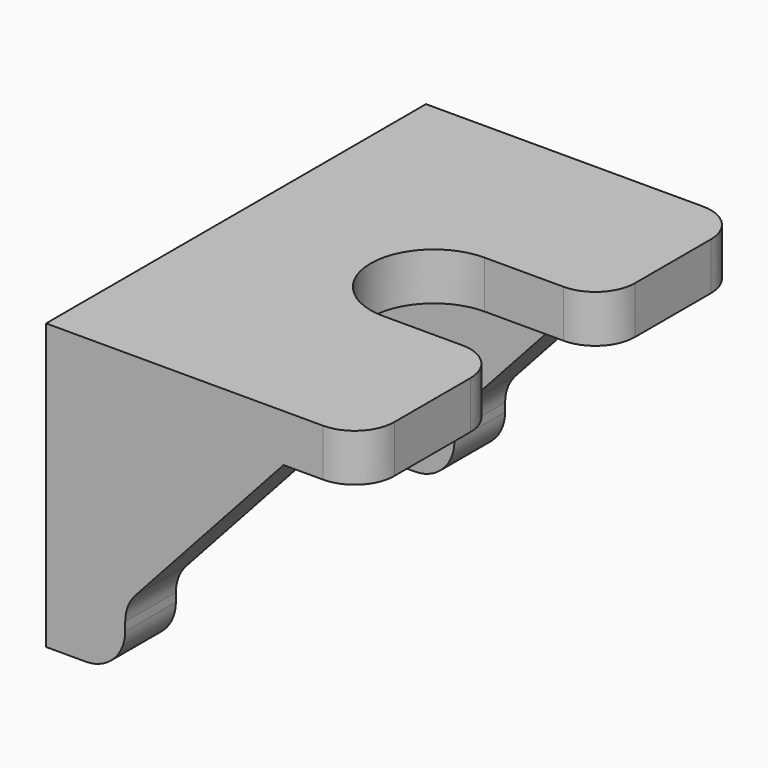
from build123d import *

# Parameters (mm, degrees)
PAD038_DEPTH           = 1.2
PAD039_DEPTH           = 1.6
LINEARPATTERN002_COUNT = 2
LINEARPATTERN002_PITCH = 10.4
FILLET006_R            = 1
FILLET007_R            = 1
FILLET008_R            = 1


with BuildPart() as part:
    # Sketch070 → Pad038 (new body)
    with BuildSketch(Plane.XY):
        with BuildLine():
            Line((-4, 6), (4, 6))
            Line((4, 6), (4, 1.6))
            Line((1, 1.6), (4, 1.6))
            ThreePointArc((1, 1.6), (-0.6, 0), (1, -1.6))
            Line((4, -1.6), (1, -1.6))
            Line((4, -1.6), (4, -6))
            Line((4, -6), (-4, -6))
            Line((-4, -6), (-4, 6))
        make_face()
    extrude(amount=PAD038_DEPTH)

    # Sketch071 (on DatumPlane) → Pad039 (join)
    with BuildSketch(Plane.XZ.offset(6)):
        Polygon((-4, 0), (-4, -6), (-2, -6), (-2, -4.4), (2, 0), align=None)
    pad039 = extrude(amount=-PAD039_DEPTH)

    # LinearPattern002: Pad039 ×2
    with Locations(*[(0, i * LINEARPATTERN002_PITCH, 0) for i in range(1, LINEARPATTERN002_COUNT)]):
        add(pad039)

    # Fillet006
    fillet006_edges = [part.edges().sort_by_distance(p)[0] for p in [
        (-2, -5.2, -6),
        (-2, 5.2, -6),
    ]]
    fillet(fillet006_edges, radius=FILLET006_R)

    # Fillet007
    fillet007_edges = [part.edges().sort_by_distance(p)[0] for p in [
        (-2, -5.2, -4.4),
        (-2, 5.2, -4.4),
    ]]
    fillet(fillet007_edges, radius=FILLET007_R)

    # Fillet008
    fillet008_edges = [part.edges().sort_by_distance(p)[0] for p in [
        (4, -6, 0.6),
        (4, -1.6, 0.6),
        (4, 1.6, 0.6),
        (4, 6, 0.6),
    ]]
    fillet(fillet008_edges, radius=FILLET008_R)


with BuildPart() as part_1:
    # Body012 placement: moved
    add(part.part.moved(Location((62, -73, 34.2))))


solid = part_1.part
